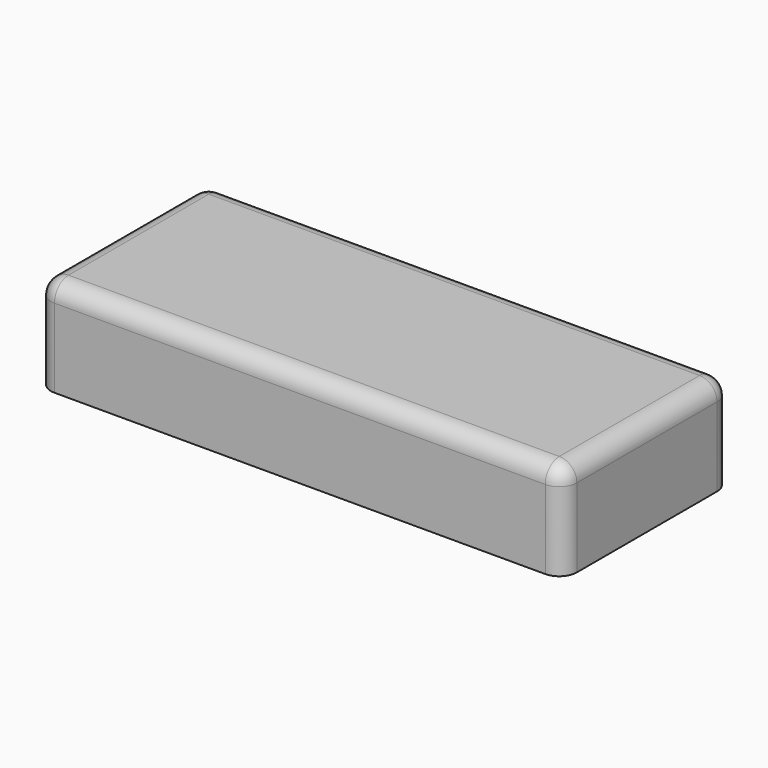
from build123d import *

# Parameters (mm, degrees)
F1_DEPTH = 5.5
F2_R     = 1
F4_DEPTH = 5
F5_W     = 12.5
F5_H     = 2.9783394848
F6_DEPTH = 3.1
F7_R     = 1


with BuildPart() as f1:
    # F0 (on Top) → F1 (new body)
    with BuildSketch(Plane.XY):
        with BuildLine():
            ThreePointArc((0, 3.8761399509), (0.2928932188, 3.1690331698), (1, 2.8761399509))
            Line((1, 2.8761399509), (29, 2.8761399509))
            ThreePointArc((29, 2.8761399509), (29.7071067812, 3.1690331698), (30, 3.8761399509))
            Line((30, 3.8761399509), (30, 13.8761399509))
            ThreePointArc((30, 13.8761399509), (29.7071067812, 14.5832467321), (29, 14.8761399509))
            Line((29, 14.8761399509), (1, 14.8761399509))
            ThreePointArc((1, 14.8761399509), (0.2928932188, 14.5832467321), (0, 13.8761399509))
            Line((0, 13.8761399509), (0, 3.8761399509))
        make_face()
    extrude(amount=F1_DEPTH)

    # F2
    f2_edges = [f1.edges().sort_by_distance(p)[0] for p in [
        (0.292893, 3.169033, 5.5),
        (15, 2.87614, 5.5),
        (29.707107, 3.169033, 5.5),
        (30, 8.87614, 5.5),
        (29.707107, 14.583247, 5.5),
        (15, 14.87614, 5.5),
        (0.292893, 14.583247, 5.5),
        (0, 8.87614, 5.5),
    ]]
    fillet(f2_edges, radius=F2_R)

    # F3 (on Top) → F4 (cut)
    with BuildSketch(Plane.XY):
        with BuildLine():
            ThreePointArc((28, 13.3761399509), (27.7071067812, 14.0832467321), (27, 14.3761399509))
            Line((27, 14.3761399509), (3, 14.3761399509))
            ThreePointArc((3, 14.3761399509), (2.2928932188, 14.0832467321), (2, 13.3761399509))
            Line((2, 13.3761399509), (2, 4.3761399509))
            ThreePointArc((2, 4.3761399509), (2.2928932188, 3.6690331698), (3, 3.3761399509))
            Line((3, 3.3761399509), (14.5, 3.3761399509))
            Line((14.5, 3.3761399509), (27, 3.3761399509))
            ThreePointArc((27, 3.3761399509), (27.7071067812, 3.6690331698), (28, 4.3761399509))
            Line((28, 4.3761399509), (28, 13.3761399509))
        make_face()
    extrude(amount=F4_DEPTH, mode=Mode.SUBTRACT)

    # F5 (on Top) → F6 (cut)
    with BuildSketch(Plane.XY):
        with Locations((20.75, 14.7778680548)):
            Rectangle(F5_W, F5_H)
    extrude(amount=F6_DEPTH, mode=Mode.SUBTRACT)

    # F7
    f7_edges = [f1.edges().sort_by_distance(p)[0] for p in [
        (15, 3.37614, 5),
        (28, 8.87614, 5),
        (2.292893, 3.669033, 5),
        (2, 8.87614, 5),
        (15, 14.37614, 5),
        (2.292893, 14.083247, 5),
        (27.707107, 14.083247, 5),
        (27.707107, 3.669033, 5),
    ]]
    fillet(f7_edges, radius=F7_R)


solid = f1.part
